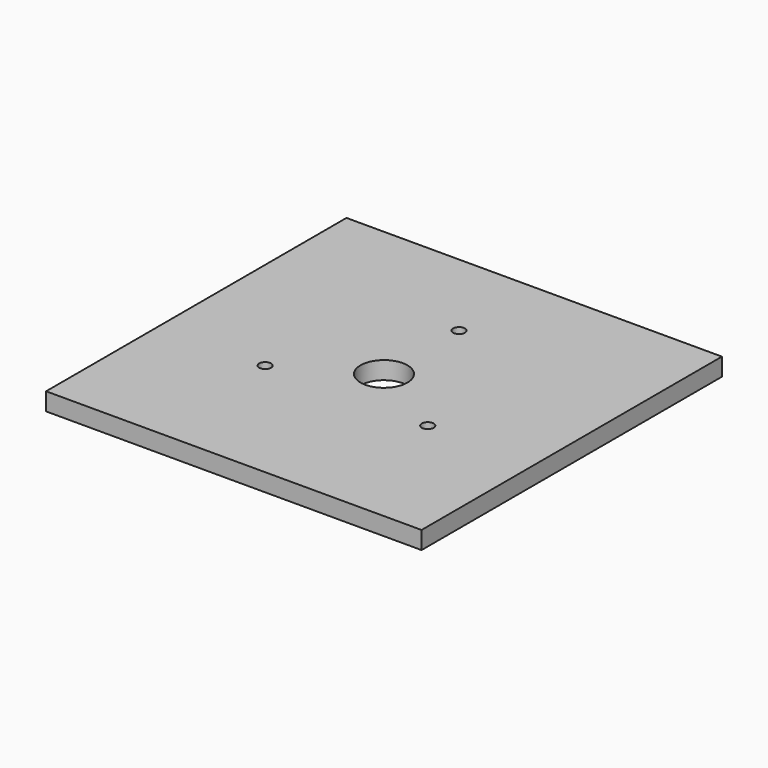
from build123d import *

# Parameters (mm, degrees)
F0_W     = 254
F0_H     = 254
F0_R     = 4.0005
F0_R_2   = 15.875
F1_DEPTH = 11.9888


with BuildPart() as f1:
    # F0 (on Top) → F1 (new body)
    with BuildSketch(Plane.XY):
        Rectangle(F0_W, F0_H)
        with Locations((-54.992613, -31.75)):
            Circle(F0_R, mode=Mode.SUBTRACT)
        with Locations((54.992613, -31.75)):
            Circle(F0_R, mode=Mode.SUBTRACT)
        Circle(F0_R_2, mode=Mode.SUBTRACT)
        with Locations((0, 63.5)):
            Circle(F0_R, mode=Mode.SUBTRACT)
    extrude(amount=F1_DEPTH)


solid = f1.part
